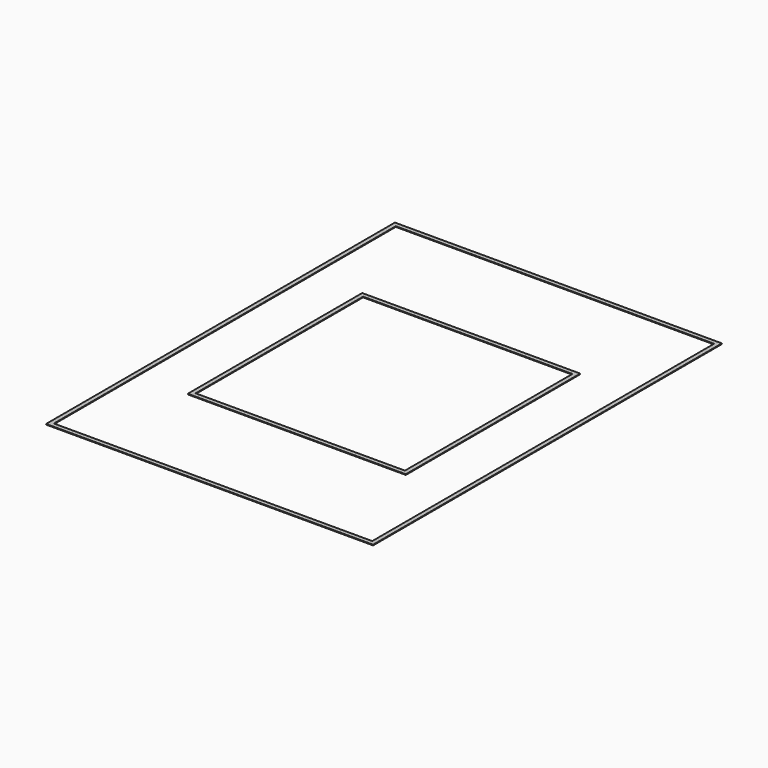
from build123d import *

# Parameters (mm, degrees)
F0_W     = 100
F0_H     = 100
F0_W_2   = 96
F0_H_2   = 96
F1_DEPTH = 0.3
F0_W_3   = 150
F0_H_3   = 200
F0_W_4   = 146
F0_H_4   = 196


with BuildPart() as f1:
    # F0 (on Top) → F1 (new body)
    with BuildSketch(Plane.XY):
        Rectangle(F0_W, F0_H)
        Rectangle(F0_W_2, F0_H_2, mode=Mode.SUBTRACT)
    extrude(amount=F1_DEPTH)


with BuildPart() as f1b:
    # F0 (on Top) → F1, piece 2 (new body)
    with BuildSketch(Plane.XY):
        Rectangle(F0_W_3, F0_H_3)
        Rectangle(F0_W_4, F0_H_4, mode=Mode.SUBTRACT)
    extrude(amount=F1_DEPTH)


solid = Compound([f1.part, f1b.part])
